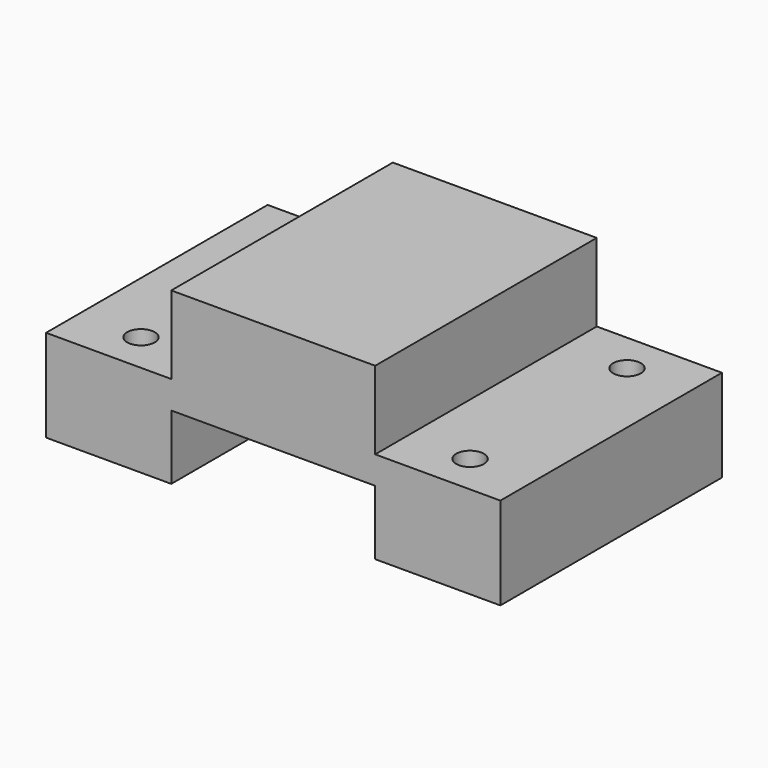
from build123d import *

# Parameters (mm, degrees)
F1_DEPTH = 76.2
F3_D     = 7.62
F5_D     = 7.62


with BuildPart() as f1:
    # F0 (on Front) → F1 (new body)
    with BuildSketch(Plane.XZ):
        Polygon((-62.504791, 0), (-28.054785, 0), (-28.054785, 17.78), (28.054785, 17.78), (28.054785, 0), (62.504791, 0), (62.504791, 25.4), (28.054785, 25.4), (28.054785, 46.863), (0, 46.863), (-28.054785, 46.863), (-28.054785, 25.4), (-62.504791, 25.4), align=None)
    extrude(amount=F1_DEPTH)

    # F3 (through all)
    with Locations(Plane.XY.offset(25.4)):
        with Locations((-45.279788, -11.107678), (-45.279788, -65.092322)):
            Hole(F3_D / 2)

    # F5 (through all)
    with Locations(Plane.XY.offset(25.4)):
        with Locations((45.279788, -11.107678), (45.279788, -65.092322)):
            Hole(F5_D / 2)


solid = f1.part
